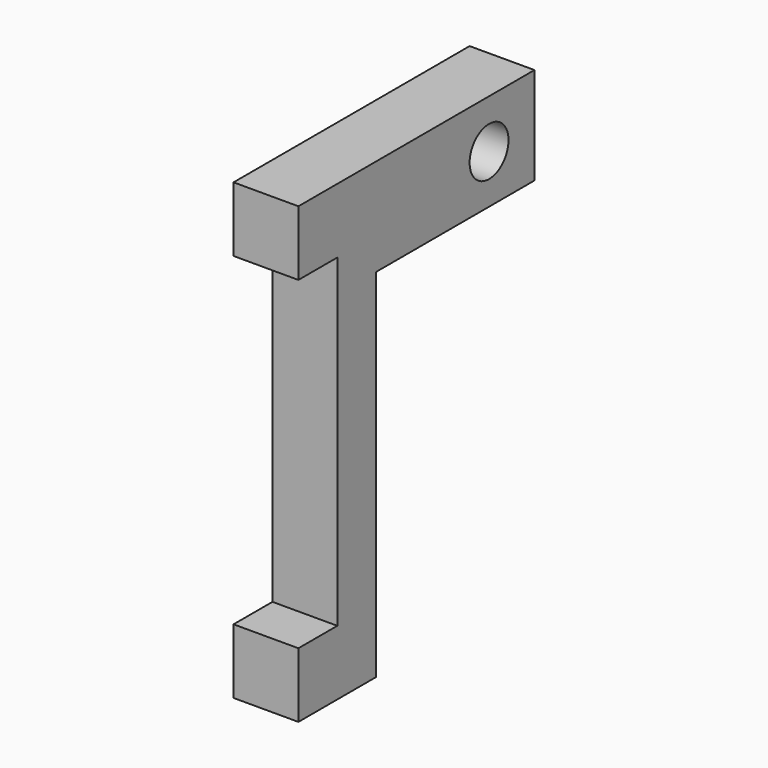
from build123d import *

# Parameters (mm, degrees)
EXTRUDE024_DEPTH = 2
SKETCH043_R      = 0.75
HOLE008_DEPTH    = 2
HOLE008_TIPS_R   = 0.75


with BuildPart() as part:
    # Sketch017 → Extrude024 (new body)
    with BuildSketch(Plane.YZ):
        Polygon((-128.000002, 5), (-130.000002, 5), (-130.300002, 5), (-133.300002, 5), (-133.300002, 3), (-131.800002, 3), (-131.800002, -7), (-133.300002, -7), (-133.300002, -9), (-130.300002, -9), (-130.300002, 2), (-130.000002, 2), (-128.000002, 2), (-127.700002, 2), (-124.200002, 2), (-124.200002, 5), (-127.700002, 5), align=None)
    extrude(amount=EXTRUDE024_DEPTH)

    # Sketch043 (on Face19 of Extrude024) → Hole008 (cut)
    with BuildSketch(Plane.YZ.offset(2)):
        with Locations((-125.949997, 3.5)):
            Circle(SKETCH043_R)
    extrude(amount=-HOLE008_DEPTH, mode=Mode.SUBTRACT)

    # Hole008 tips → Hole008 tip 1 section 0
    with BuildSketch(Plane.YZ, mode=Mode.PRIVATE) as hole008_tip_1_s0:
        with Locations((-125.949997, 3.5)):
            Circle(HOLE008_TIPS_R)
    loft([hole008_tip_1_s0.sketch, Vertex(-0.450645, -125.949997, 3.5)], mode=Mode.SUBTRACT)


solid = part.part
